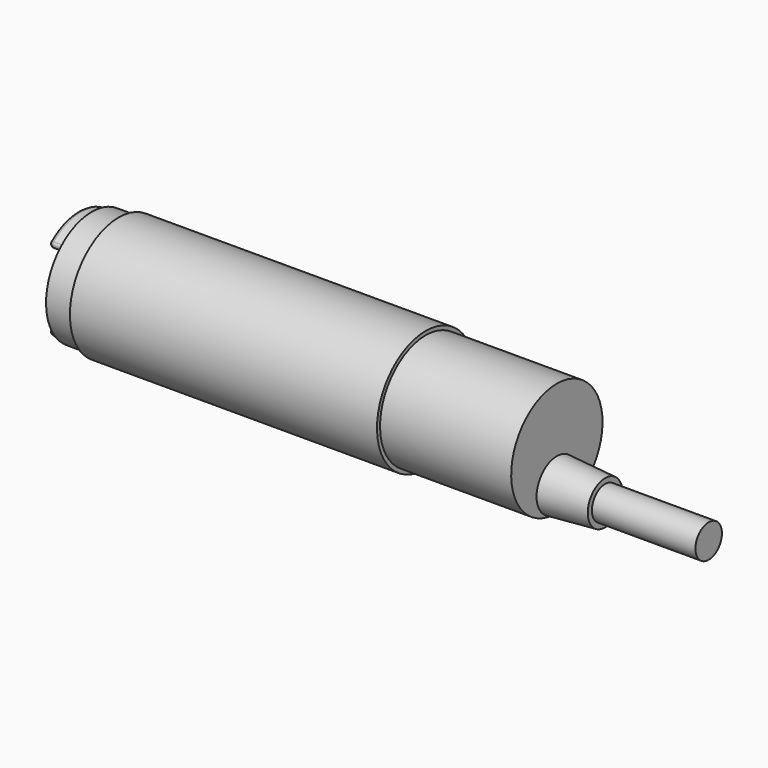
from build123d import *

# Parameters (mm, degrees)
F2_W      = 2
F2_H      = 10.2
F3_DEPTH  = 12.5
F4_R      = 0.5
F8_W      = 15
F8_H      = 2.4
F11_DEPTH = 0.75
F13_DEPTH = 8.826


with BuildPart() as f1:
    # F0 (on Front) → F1 (revolve)
    with BuildSketch(Plane.XZ):
        Polygon((-69.4, 7.8), (-69.4, 0), (0, 0), (0, 8.27), (-19, 8.27), (-19, 8.825), (-63.5, 8.825), (-63.5, 8.27), (-67.4, 8.27), (-67.4, 7.8), align=None)
    revolve(axis=Axis((-34.7, 0, 0), (-1, 0, 0)))

    # F2 (on Front) → F3 (cut, symmetric)
    with BuildSketch(Plane.XZ):
        with Locations((-68.4, 0)):
            Rectangle(F2_W, F2_H)
    extrude(amount=F3_DEPTH, both=True, mode=Mode.SUBTRACT)

    # F4
    f4_edges = [f1.edges().sort_by_distance(p)[0] for p in [
        (-69.4, 0, 5.1),
        (-68.4, 5.901695, 5.1),
        (-68.4, -5.901695, 5.1),
        (-69.4, 0, 7.8),
        (-68.4, 5.901695, -5.1),
        (-68.4, -5.901695, -5.1),
        (-69.4, 0, -7.8),
        (-69.4, 0, -5.1),
    ]]
    fillet(f4_edges, radius=F4_R)


with BuildPart() as f7:
    # F6 (on offset) → F7 (revolve)
    with BuildSketch(Plane.XY.offset(-4.65)):
        Polygon((0, 0), (0, -3.675), (7, -3.15), (7, 0), align=None)
    revolve(axis=Axis((3.5, 0, -4.65), (1, 0, 0)))


with BuildPart() as f9:
    # F8 (on offset) → F9 (revolve)
    with BuildSketch(Plane.XY.offset(-4.65)):
        with Locations((14.5, 1.2)):
            Rectangle(F8_W, F8_H)
    revolve(axis=Axis((14.5, 0, -4.65), (1, 0, 0)))


with BuildPart() as f11:
    # F10 (on face) → F11 (new body)
    with BuildSketch(Plane(origin=(-67.4, 0, 0), x_dir=(0, -1, 0), z_dir=(-1, 0, 0))):
        with BuildLine():
            Line((-1.6, 4.075), (-6.1, 4.075))
            ThreePointArc((-6.1, 4.075), (-7.25, 0), (-6.1, -4.075))
            Line((-6.1, -4.075), (-1.6, -4.075))
            ThreePointArc((-1.6, -4.075), (-0.45, 0), (-1.6, 4.075))
        make_face()
    extrude(amount=F11_DEPTH)

    # F12 (on Front) → F13 (cut, through all)
    with BuildSketch(Plane.XZ):
        with BuildLine():
            ThreePointArc((-67.5, -4.075), (-67.9864793145, -2.0632574367), (-68.15, 0))
            Line((-68.15, 0), (-68.15, -4.075))
            Line((-68.15, -4.075), (-67.5, -4.075))
        make_face()
        with BuildLine():
            ThreePointArc((-68.15, 0), (-67.9864793145, 2.0632574367), (-67.5, 4.075))
            Line((-67.5, 4.075), (-68.15, 4.075))
            Line((-68.15, 4.075), (-68.15, 0))
        make_face()
    extrude(amount=-F13_DEPTH, mode=Mode.SUBTRACT)


with BuildPart() as f14_1:
    # F14: instance of F11
    add(f11.part.mirror(Plane.XZ))


solid = Compound([f1.part, f7.part, f9.part, f11.part, f14_1.part])
